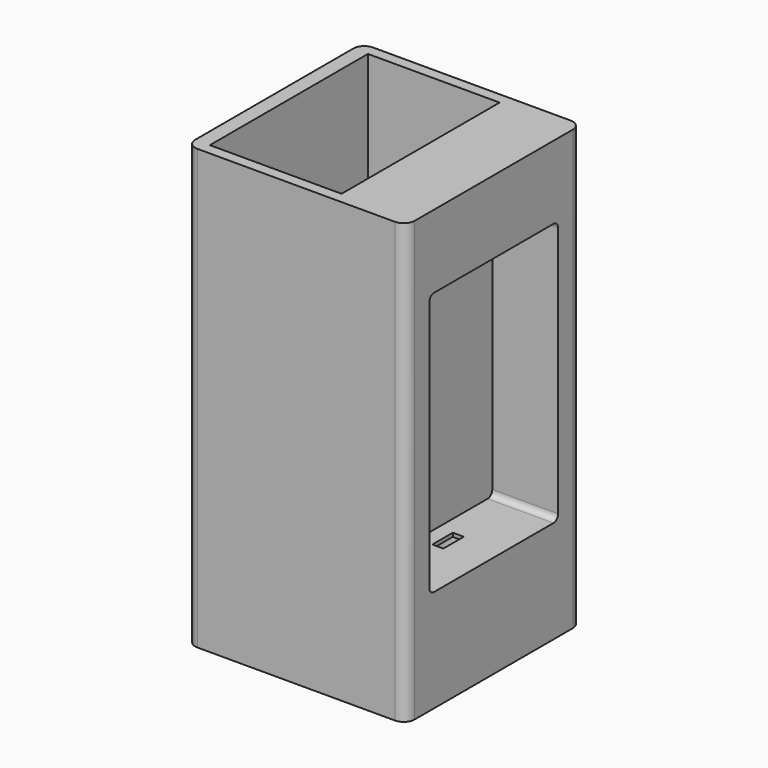
from build123d import *

# Parameters (mm, degrees)
BOX_W           = 30
BOX_H           = 30
BOX_DEPTH       = 60
SKETCH_W        = 18
SKETCH_H        = 27
POCKET_DEPTH    = 56
SKETCH001_W     = 22
SKETCH001_H     = 36
POCKET001_DEPTH = 9
SKETCH003_R     = 3.5
POCKET002_DEPTH = 13.5
SKETCH004_W     = 1.5
SKETCH004_H     = 3.5
POCKET003_DEPTH = 1
SKETCH005_W     = 3
SKETCH005_H     = 1.5
POCKET004_DEPTH = 1
FILLET_R        = 1.5
FILLET001_R     = 0.8


with BuildPart() as part:
    # Box → Box (new body)
    with BuildSketch(Plane.XY):
        with Locations((15, 15)):
            Rectangle(BOX_W, BOX_H)
    extrude(amount=BOX_DEPTH)

    # Sketch (on Face6 of BaseFeature) → Pocket (cut)
    with BuildSketch(Plane.XY.offset(60)):
        with Locations((11, 15)):
            Rectangle(SKETCH_W, SKETCH_H)
    extrude(amount=-POCKET_DEPTH, mode=Mode.SUBTRACT)

    # Sketch001 (on Face6 of Pocket) → Pocket001 (cut)
    with BuildSketch(Plane.YZ.offset(30)):
        with Locations((15, 32)):
            Rectangle(SKETCH001_W, SKETCH001_H)
    extrude(amount=-POCKET001_DEPTH, mode=Mode.SUBTRACT)

    # Sketch003 (on Face5 of Pocket001) → Pocket002 (cut)
    with BuildSketch(Plane(origin=(0, 0, 0), x_dir=(1, 0, 0), z_dir=(0, 0, -1))):
        with Locations((25.5, -15)):
            Circle(SKETCH003_R)
    extrude(amount=-POCKET002_DEPTH, mode=Mode.SUBTRACT)

    # Sketch004 (on Face17 of Pocket002) → Pocket003 (cut)
    with BuildSketch(Plane(origin=(0, 0, 13.5), x_dir=(1, 0, 0), z_dir=(0, 0, -1))):
        with Locations((23.75, -15)):
            Rectangle(SKETCH004_W, SKETCH004_H)
    extrude(amount=-POCKET003_DEPTH, mode=Mode.SUBTRACT)

    # Sketch005 (on Face18 of Pocket003) → Pocket004 (cut)
    with BuildSketch(Plane.YZ.offset(21)):
        with Locations((15, 47.25)):
            Rectangle(SKETCH005_W, SKETCH005_H)
    extrude(amount=-POCKET004_DEPTH, mode=Mode.SUBTRACT)

    # Fillet
    fillet_edges = [part.edges().sort_by_distance(p)[0] for p in [
        (30, 0, 30),
        (30, 30, 30),
        (0, 0, 30),
        (0, 30, 30),
    ]]
    fillet(fillet_edges, radius=FILLET_R)

    # Fillet001
    fillet001_edges = [part.edges().sort_by_distance(p)[0] for p in [
        (25.5, 26, 50),
        (25.5, 26, 14),
        (25.5, 4, 14),
        (25.5, 4, 50),
    ]]
    fillet(fillet001_edges, radius=FILLET001_R)


solid = part.part
